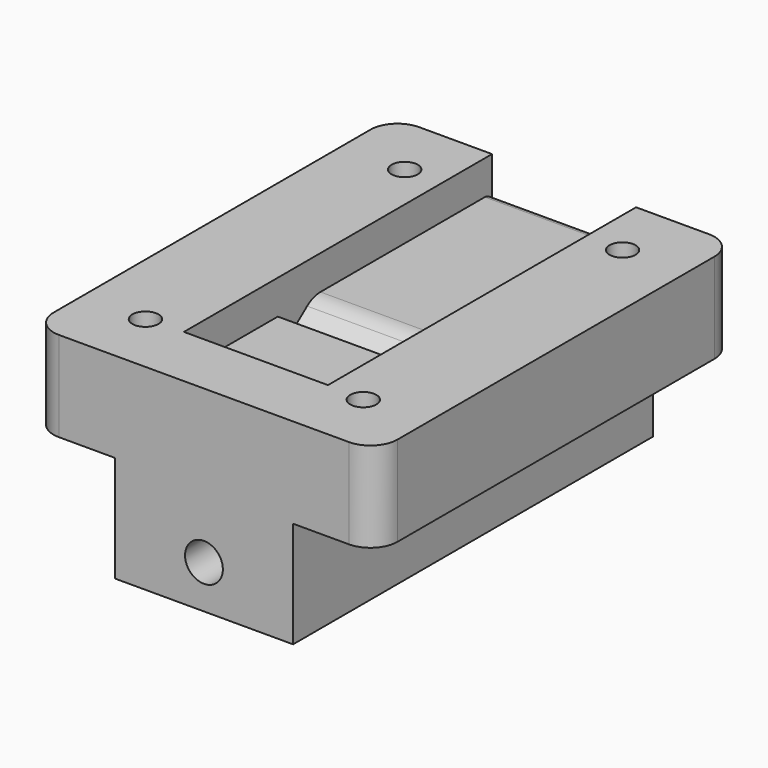
from build123d import *

# Parameters (mm, degrees)
PAD005_DEPTH    = 50
SKETCH012_R     = 2.1
POCKET004_DEPTH = 50.001
POCKET005_DEPTH = 8
SKETCH014_W     = 7.2
SKETCH014_H     = 3.4
POCKET006_DEPTH = 8.85
SKETCH015_R     = 1.45
POCKET007_DEPTH = 21.801
FILLET012_R     = 3
FILLET013_R     = 3
FILLET015_R     = 1


with BuildPart() as part:
    # Sketch010 → Pad005 (new body)
    with BuildSketch(Plane.XZ):
        Polygon((-9.9, -11.8), (9.9, -11.8), (9.9, 0), (19.1, 0), (19.1, 10), (-19.1, 10), (-19.1, 0), (-9.9, 0), align=None)
    extrude(amount=PAD005_DEPTH)

    # Sketch012 → Pocket004 (cut, through all)
    with BuildSketch(Plane.XZ):
        with Locations((0, -7)):
            Circle(SKETCH012_R)
    extrude(amount=POCKET004_DEPTH, mode=Mode.SUBTRACT)

    # Sketch013 → Pocket005 (cut, symmetric)
    with BuildSketch(Plane.YZ):
        with BuildLine():
            Line((-24.861402, 6.200002), (-36.703512, -3.006758))
            ThreePointArc((-45.296488, 8.045878), (-46.526318, -1.776928), (-36.703512, -3.006758))
            Line((-42.783017, 10), (-45.296488, 8.045878))
            Line((0, 10), (-42.783017, 10))
            Line((0.003511, 6.200002), (0, 10))
            Line((-24.861402, 6.200002), (0.003511, 6.200002))
        make_face()
        with BuildLine():
            ThreePointArc((-43.455136, 5.677456), (-44.157896, 0.064424), (-38.544864, -0.638336))
            Line((-38.544864, -0.638336), (-29.749115, 6.200002))
            Line((-42.783017, 6.200002), (-29.749115, 6.200002))
            Line((-43.455136, 5.677456), (-42.783017, 6.200002))
        make_face(mode=Mode.SUBTRACT)
    extrude(amount=POCKET005_DEPTH, both=True, mode=Mode.SUBTRACT)

    # Sketch014 (on Face1 of Pocket005) → Pocket006 (cut)
    with BuildSketch(Plane(origin=(0, 0, -11.8), x_dir=(1, 0, 0), z_dir=(0, 0, -1))):
        with Locations((0, 21.756458)):
            Rectangle(SKETCH014_W, SKETCH014_H)
    extrude(amount=-POCKET006_DEPTH, mode=Mode.SUBTRACT)

    # Sketch015 (on DatumPlane) → Pocket007 (cut, through all)
    with BuildSketch(Plane.XY.offset(10)):
        with Locations((-12.1, -7)):
            Circle(SKETCH015_R)
        with Locations((12.1, -7)):
            Circle(SKETCH015_R)
        with Locations((12.1, -43)):
            Circle(SKETCH015_R)
        with Locations((-12.1, -43)):
            Circle(SKETCH015_R)
    extrude(amount=-POCKET007_DEPTH, mode=Mode.SUBTRACT)

    # Fillet012
    fillet012_edges = [part.edges().sort_by_distance(p)[0] for p in [
        (19.1, -50, 5),
        (19.1, 0, 5),
        (-19.1, -50, 5),
        (-19.1, 0, 5),
    ]]
    fillet(fillet012_edges, radius=FILLET012_R)

    # Fillet013
    fillet013_edges = [part.edges().sort_by_distance(p)[0] for p in [
        (0, -42.783017, 6.200002),
        (0, -24.861402, 6.200002),
    ]]
    fillet(fillet013_edges, radius=FILLET013_R)

    # Fillet015
    fillet015_edges = [part.edges().sort_by_distance(p)[0] for p in [
        (0, 0, 6.200002),
    ]]
    fillet(fillet015_edges, radius=FILLET015_R)


solid = part.part
